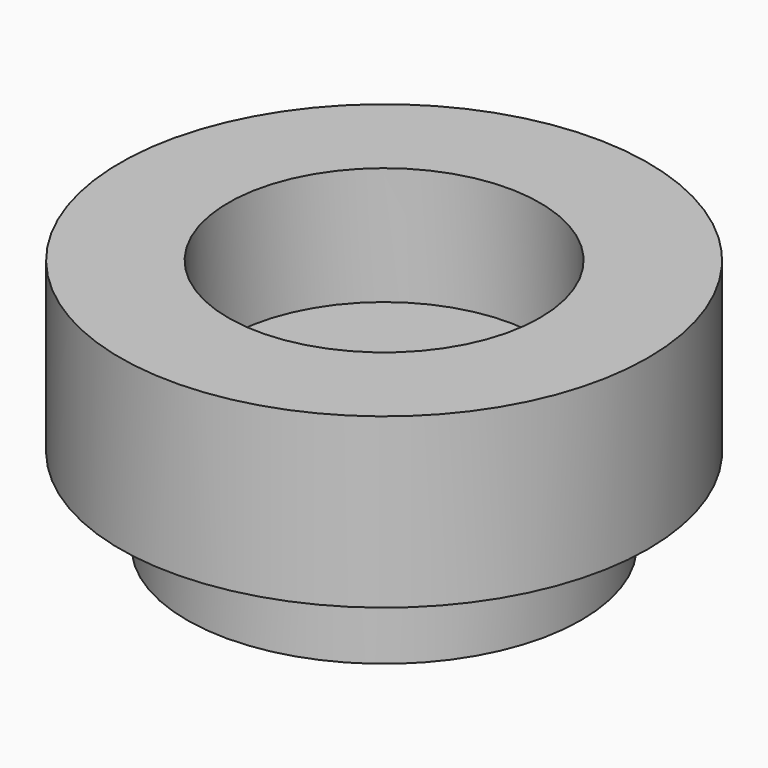
from build123d import *

# Parameters (mm, degrees)
F1_R     = 19.907119
F2_DEPTH = 12.7
F3_R     = 14.872727
F4_DEPTH = 19.05
F0_R     = 11.75258
F5_DEPTH = 8.89


with BuildPart() as f2:
    # F1 (on Top) → F2 (new body)
    with BuildSketch(Plane.XY):
        Circle(F1_R)
    extrude(amount=-F2_DEPTH)

    # F3 (on Top) → F4 (join)
    with BuildSketch(Plane.XY):
        Circle(F3_R)
    extrude(amount=-F4_DEPTH)

    # F0 (on Top) → F5 (cut)
    with BuildSketch(Plane.XY):
        Circle(F0_R)
    extrude(amount=-F5_DEPTH, mode=Mode.SUBTRACT)


solid = f2.part
